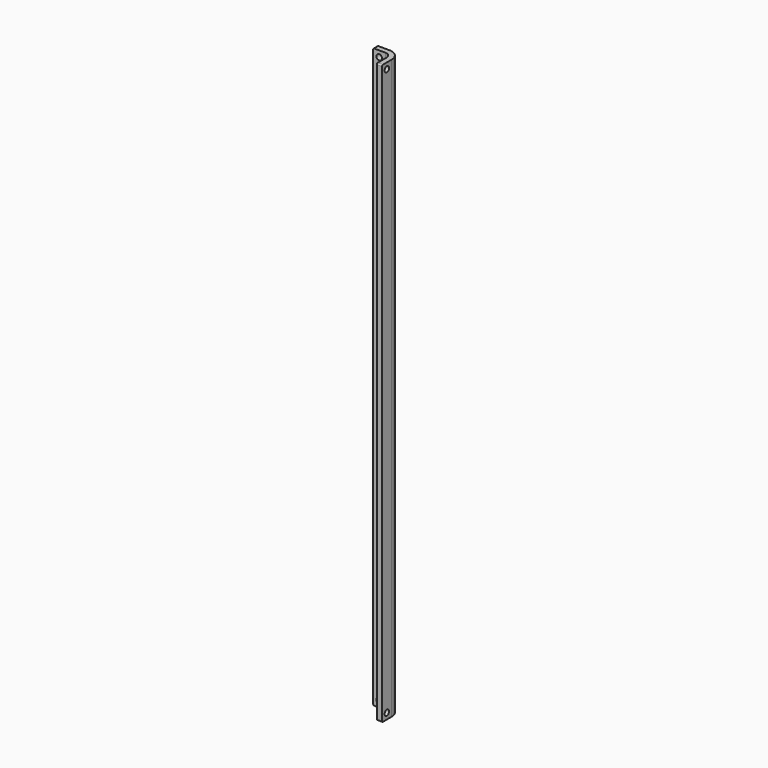
from build123d import *

# Parameters (mm, degrees)
F1_DEPTH = 378.451567
F2_R     = 3.96748
F3_R     = 7.38632
F4_R     = 1.8288
F5_DEPTH = 3.41884
F6_R     = 1.8288
F7_DEPTH = 3.41884
F8_R     = 0.762


with BuildPart() as f1:
    # F0 (on Top) → F1 (new body)
    with BuildSketch(Plane.XY):
        Polygon((-11.90498, 0), (0, 0), (0, -11.90498), (3.41884, -11.90498), (3.41884, 3.41884), (-11.90498, 3.41884), align=None)
    extrude(amount=F1_DEPTH)

    # F2
    f2_edges = [f1.edges().sort_by_distance(p)[0] for p in [
        (0, 0, 189.225784),
    ]]
    fillet(f2_edges, radius=F2_R)

    # F3
    f3_edges = [f1.edges().sort_by_distance(p)[0] for p in [
        (3.41884, 3.41884, 189.225784),
    ]]
    fillet(f3_edges, radius=F3_R)

    # F4 (on face) → F5 (cut, through all)
    with BuildSketch(Plane(origin=(0, 3.41884, 0), x_dir=(-1, 0, 0), z_dir=(0, 1, 0))):
        with Locations((7.93623, 3.96875)):
            Circle(F4_R)
        with Locations((7.93623, 374.482817)):
            Circle(F4_R)
    extrude(amount=-F5_DEPTH, mode=Mode.SUBTRACT)

    # F6 (on face) → F7 (cut, through all)
    with BuildSketch(Plane.YZ.offset(3.41884)):
        with Locations((-7.93623, 374.482817)):
            Circle(F6_R)
        with Locations((-7.93623, 3.96875)):
            Circle(F6_R)
    extrude(amount=-F7_DEPTH, mode=Mode.SUBTRACT)

    # F8
    f8_edges = [f1.edges().sort_by_distance(p)[0] for p in [
        (-11.90498, 1.70942, 378.451567),
        (1.70942, -11.90498, 378.451567),
        (1.70942, -11.90498, 0),
        (-11.90498, 1.70942, 0),
    ]]
    fillet(f8_edges, radius=F8_R)


solid = f1.part
